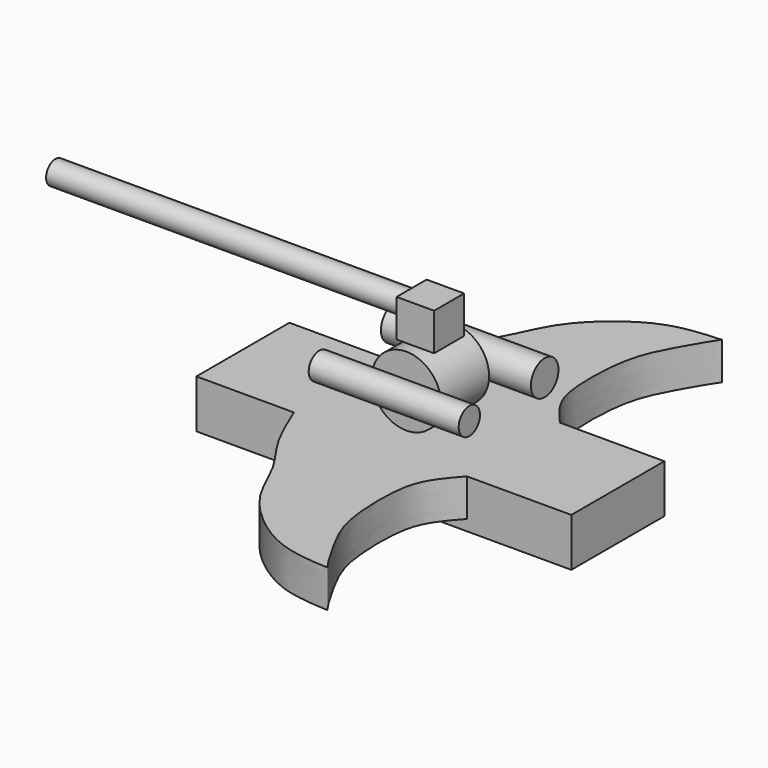
from build123d import *

# Parameters (mm, degrees)
F0_W      = 50
F0_H      = 50
F1_DEPTH  = 50
F2_R      = 46.3363751769
F3_DEPTH  = 40
F4_R      = 17.7333609011
F5_DEPTH  = 100
F4_R_2    = 22.9895854719
F6_W      = 150.0053852797
F6_H      = 64.5283907652
F7_DEPTH  = 250
F9_DEPTH  = 50
F11_R     = 15.5698976694
F12_DEPTH = 500


with BuildPart() as f1:
    # F0 (on Top) → F1 (new body)
    with BuildSketch(Plane.XY):
        Rectangle(F0_W, F0_H)
    extrude(amount=F1_DEPTH)

    # F2 (on Front) → F3 (join, symmetric)
    with BuildSketch(Plane.XZ):
        with Locations((0, -46.3363751769)):
            Circle(F2_R)
    extrude(amount=F3_DEPTH, both=True)

    # F11 (on Right) → F12 (join)
    with BuildSketch(Plane.YZ):
        with Locations((0, 31.7321009934)):
            Circle(F11_R)
    extrude(amount=-F12_DEPTH)


with BuildPart() as f5:
    # F4 (on Right) → F5 (new body, symmetric)
    with BuildSketch(Plane.YZ):
        with Locations((-60.0230209529, -40.8225208521)):
            Circle(F4_R)
    extrude(amount=F5_DEPTH, both=True)


with BuildPart() as f5b:
    # F4 (on Right) → F5, piece 2 (new body, symmetric)
    with BuildSketch(Plane.YZ):
        with Locations((65.5852109194, -41.032589972)):
            Circle(F4_R_2)
    extrude(amount=F5_DEPTH, both=True)


with BuildPart() as f7:
    # F6 (on Right) → F7 (new body, symmetric)
    with BuildSketch(Plane.YZ):
        with Locations((2.5133416057, -127.4378970265)):
            Rectangle(F6_W, F6_H)
    extrude(amount=F7_DEPTH, both=True)

    # F8 (on face) → F9 (join)
    with BuildSketch(Plane.XY.offset(-95.1737016439)):
        with BuildLine():
            add(Edge.make_bspline(
                [(-119.8757588863, 77.5160342455), (-110.8412515386, 99.7311868923), (-93.5672704782, 142.2064131769), (-55.4895061779, 187.6695438825), (-32.2898015872, 256.5820348781), (36.3037628362, 313.221153866), (84.3874776383, 326.8079933118), (127.3213349008, 329.2106936435), (123.8444693616, 328.0144598686), (91.2721243046, 273.3510610408), (73.4225168963, 229.6355098592), (70.8102662833, 150.18838151), (82.1305670088, 110.0419034239), (101.2289375798, 88.3793277013), (110.8062267303, 77.5160342455)],
                knots=[0, 0, 0, 0, 0.0987839837, 0.1888746162, 0.2892278775, 0.3981995525, 0.4874154783, 0.5565014631, 0.5653461376, 0.6547200192, 0.7442477945, 0.8470698039, 0.9233103051, 1, 1, 1, 1], degree=3))
            Line((-119.8757588863, 77.5160342455), (110.8062267303, 77.5160342455))
        make_face()
    extrude(amount=-F9_DEPTH)

    # F10: F7 across plane


with BuildPart() as f7_1:
    add(f7.part)
    add(f7.part.mirror(Plane.XZ))


solid = Compound([f1.part, f5.part, f5b.part, f7_1.part])
